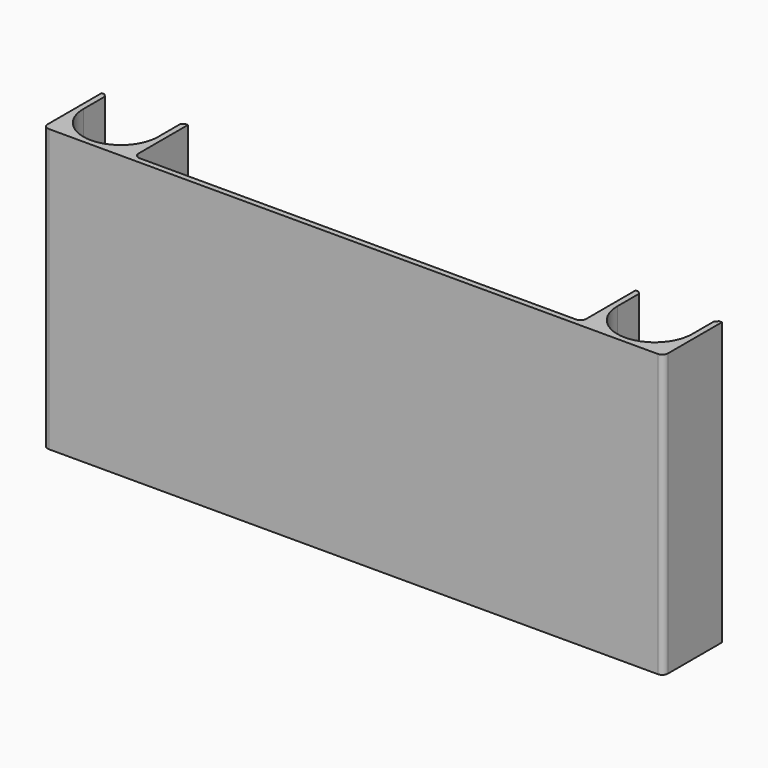
from build123d import *

# Parameters (mm, degrees)
F2_DEPTH = 50
F3_R     = 1
F4_SIZE  = 0.5


with BuildPart() as f2:
    # F1 (on Top) → F2 (new body)
    with BuildSketch(Plane.XY):
        with BuildLine():
            Line((0, 1), (-39.7, 1))
            Line((-39.7, 1), (-39.7, 12.97))
            Line((-39.7, 12.97), (-40.7, 12.97))
            Line((-40.7, 12.97), (-40.7, 7.65))
            ThreePointArc((-40.7, 7.65), (-47.35, 1), (-54, 7.65))
            Line((-54, 7.65), (-54, 12.97))
            Line((-54, 12.97), (-55, 12.97))
            Line((-55, 12.97), (-55, 0))
            Line((-55, 0), (0, 0))
            Line((0, 0), (55, 0))
            Line((55, 0), (55, 12.97))
            Line((55, 12.97), (54, 12.97))
            Line((54, 12.97), (54, 7.65))
            ThreePointArc((54, 7.65), (47.35, 1), (40.7, 7.65))
            Line((40.7, 7.65), (40.7, 12.97))
            Line((40.7, 12.97), (39.7, 12.97))
            Line((39.7, 12.97), (39.7, 1))
            Line((39.7, 1), (0, 1))
        make_face()
    extrude(amount=F2_DEPTH)

    # F3
    f3_edges = [f2.edges().sort_by_distance(p)[0] for p in [
        (-55, 0, 25),
        (55, 0, 25),
        (39.7, 1, 25),
        (-39.7, 1, 25),
    ]]
    fillet(f3_edges, radius=F3_R)

    # F4
    f4_edges = [f2.edges().sort_by_distance(p)[0] for p in [
        (-54, 12.97, 25),
        (-40.7, 12.97, 25),
        (40.7, 12.97, 25),
        (54, 12.97, 25),
    ]]
    chamfer(f4_edges, length=F4_SIZE)


solid = f2.part
